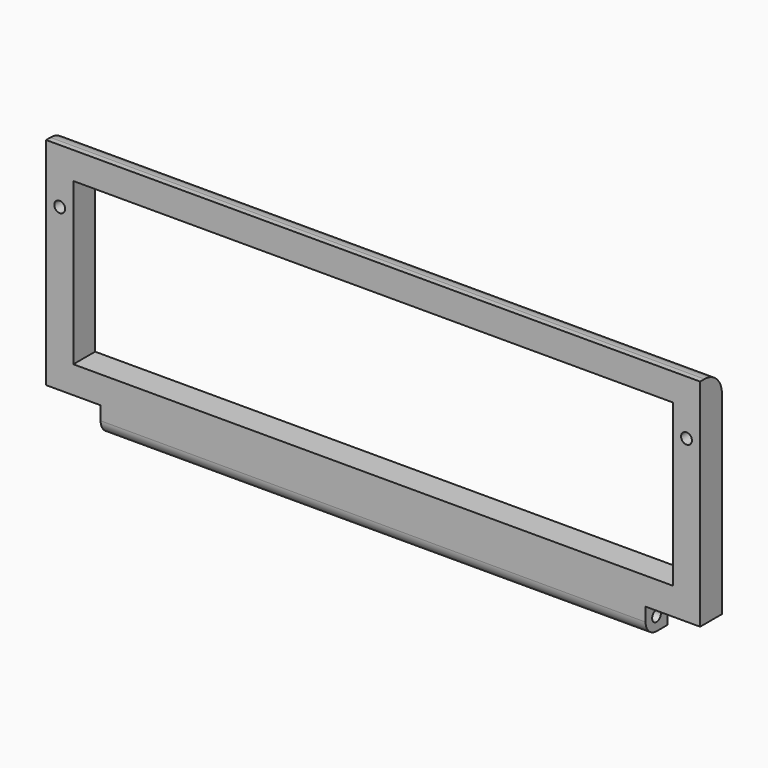
from build123d import *

# Parameters (mm, degrees)
F1_DEPTH = 6.35
F2_R     = 3.175
F3_R     = 1.27
F4_DEPTH = 139.701
F5_R     = 5.08
F6_R     = 1.27
F7_DEPTH = 6.351


with BuildPart() as f1:
    # F0 (on Front) → F1 (new body)
    with BuildSketch(Plane.XZ):
        Polygon((152.4, 0), (0, 0), (0, -50.292001), (12.7, -50.292001), (12.7, -56.642), (139.7, -56.642), (139.7, -50.292001), (152.4, -50.292001), align=None)
        Polygon((146.05, -6.35), (146.05, -43.942001), (139.7, -43.942001), (12.7, -43.942001), (6.35, -43.942001), (6.35, -6.35), align=None, mode=Mode.SUBTRACT)
    extrude(amount=-F1_DEPTH)

    # F2
    f2_edges = [f1.edges().sort_by_distance(p)[0] for p in [
        (76.2, 0, -56.642),
    ]]
    fillet(f2_edges, radius=F2_R)

    # F3 (on face) → F4 (cut, through all)
    with BuildSketch(Plane(origin=(12.7, 0, 0), x_dir=(0, -1, 0), z_dir=(-1, 0, 0))):
        with Locations((-3.175, -53.467)):
            Circle(F3_R)
    extrude(amount=-F4_DEPTH, mode=Mode.SUBTRACT)

    # F5
    f5_edges = [f1.edges().sort_by_distance(p)[0] for p in [
        (76.2, 6.35, 0),
    ]]
    fillet(f5_edges, radius=F5_R)

    # F6 (on face) → F7 (cut, through all)
    with BuildSketch(Plane(origin=(0, 6.35, 0), x_dir=(-1, 0, 0), z_dir=(0, 1, 0))):
        with Locations((-149.225, -12.7)):
            Circle(F6_R)
        with Locations((-3.175, -12.7)):
            Circle(F6_R)
    extrude(amount=-F7_DEPTH, mode=Mode.SUBTRACT)


solid = f1.part
